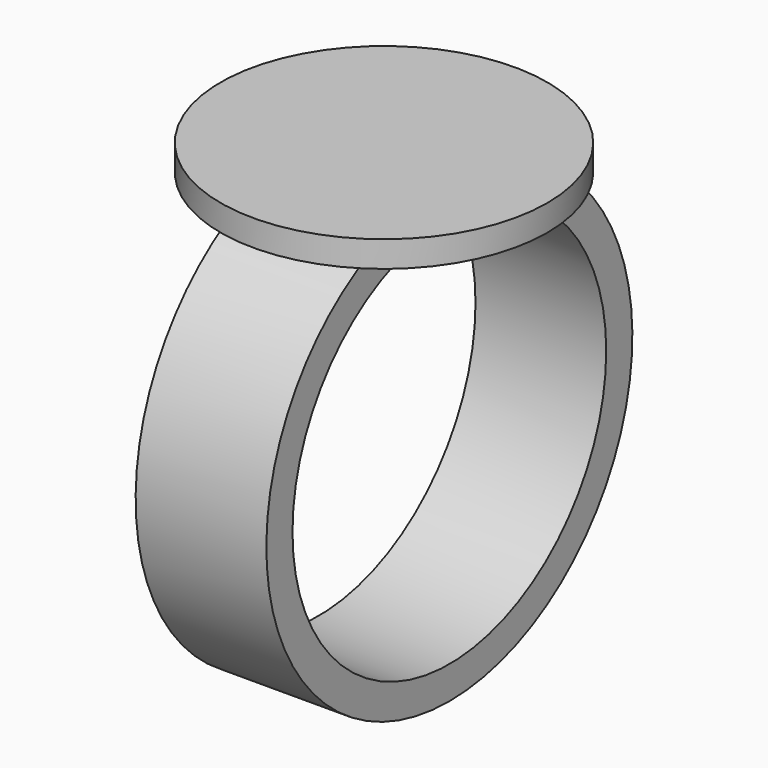
from build123d import *

# Parameters (mm, degrees)
F0_R     = 44.45
F0_R_2   = 38.1
F1_DEPTH = 25.4
F3_R     = 31.75
F4_DEPTH = 2.54


with BuildPart() as f1:
    # F0 (on Right) → F1 (new body)
    with BuildSketch(Plane.YZ):
        Circle(F0_R)
        Circle(F0_R_2, mode=Mode.SUBTRACT)
    extrude(amount=F1_DEPTH)

    # F3 (on offset) → F4 (join, symmetric)
    with BuildSketch(Plane.XY.offset(44.45)):
        with Locations((12.7, 0)):
            Circle(F3_R)
    extrude(amount=F4_DEPTH, both=True)


solid = f1.part
